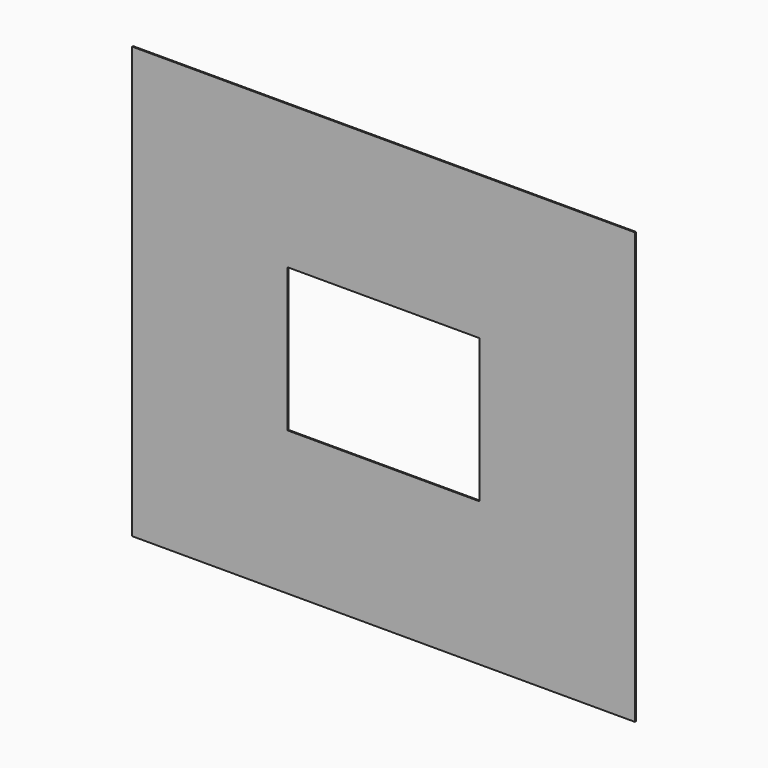
from build123d import *

# Parameters (mm, degrees)
F0_W     = 2100
F0_H     = 1800
F0_W_2   = 800
F0_H_2   = 600
F1_DEPTH = 2.5


with BuildPart() as f1:
    # F0 (on Front) → F1 (new body, symmetric)
    with BuildSketch(Plane.XZ):
        with Locations((400, 465.174195)):
            Rectangle(F0_W, F0_H)
        with Locations((400, 465.174195)):
            Rectangle(F0_W_2, F0_H_2, mode=Mode.SUBTRACT)
    extrude(amount=F1_DEPTH, both=True)


solid = f1.part
